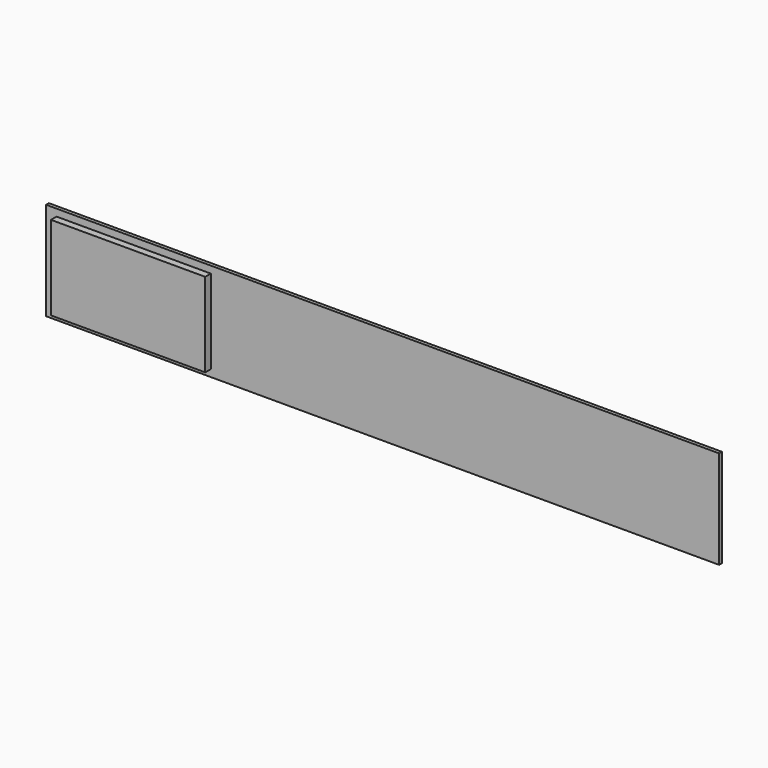
from build123d import *

# Parameters (mm, degrees)
F0_W     = 2438.4
F0_H     = 355.6
F1_DEPTH = 12.7
F2_W     = 558.8
F2_H     = 304.8
F3_DEPTH = 25.4


with BuildPart() as f1:
    # F0 (on Front) → F1 (new body)
    with BuildSketch(Plane.XZ):
        with Locations((1219.2, 177.8)):
            Rectangle(F0_W, F0_H)
    extrude(amount=F1_DEPTH)


with BuildPart() as f3:
    # F2 (on face) → F3 (new body)
    with BuildSketch(Plane.XZ.offset(12.7)):
        with Locations((317.5, 177.8)):
            Rectangle(F2_W, F2_H)
    extrude(amount=F3_DEPTH)


solid = Compound([f1.part, f3.part])
